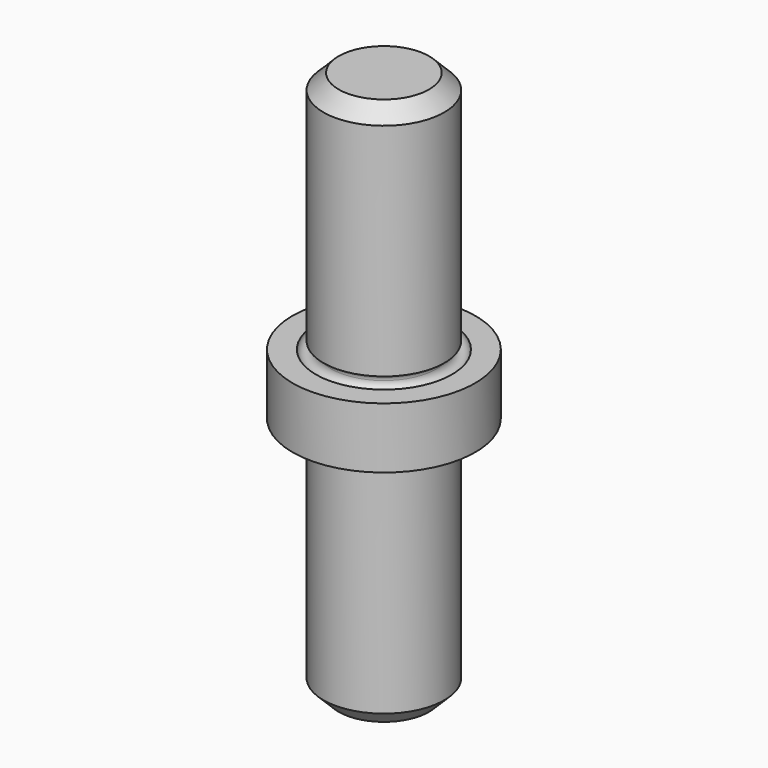
from build123d import *

# Parameters (mm, degrees)
F2_SIZE = 1.5875


with BuildPart() as f1:
    # F0 (on Front) → F1 (revolve)
    with BuildSketch(Plane.XZ):
        with BuildLine():
            Line((-9.525, 3.175), (-9.525, 0))
            Line((-9.525, 0), (0, 0))
            Line((0, 0), (0, 28.575))
            Line((0, 28.575), (-6.2992, 28.575))
            Line((-6.2992, 28.575), (-6.2992, 3.96875))
            ThreePointArc((-6.2992, 3.96875), (-5.737934, 3.736266), (-5.50545, 3.175))
            ThreePointArc((-5.50545, 3.175), (-6.2992, 2.38125), (-7.09295, 3.175))
            Line((-7.09295, 3.175), (-9.525, 3.175))
        make_face()
        with BuildLine():
            Line((0, 0), (-9.525, 0))
            Line((-9.525, 0), (-9.525, -3.175))
            Line((-9.525, -3.175), (-7.09295, -3.175))
            ThreePointArc((-7.09295, -3.175), (-6.2992, -2.38125), (-5.50545, -3.175))
            ThreePointArc((-5.50545, -3.175), (-5.737934, -3.736266), (-6.2992, -3.96875))
            Line((-6.2992, -3.96875), (-6.2992, -28.575))
            Line((-6.2992, -28.575), (0, -28.575))
            Line((0, -28.575), (0, 0))
        make_face()
    revolve(axis=Axis((0, 0, -14.2875), (0, 0, 1)))

    # F2
    f2_edges = [f1.edges().sort_by_distance(p)[0] for p in [
        (6.2992, 0, 28.575),
        (6.2992, 0, -28.575),
    ]]
    chamfer(f2_edges, length=F2_SIZE)


solid = f1.part
